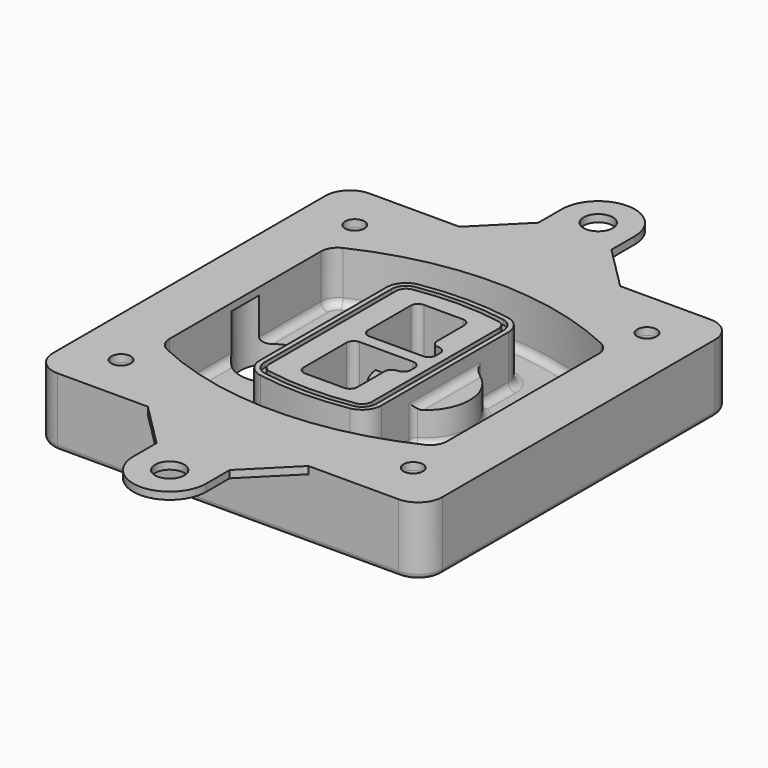
from build123d import *

# Parameters (mm, degrees)
F0_R      = 4
F1_DEPTH  = 25
F2_DEPTH  = 3
F3_DEPTH  = 18
F5_DEPTH  = 21
F6_DEPTH  = 2
F8_DEPTH  = 20
F9_DEPTH  = 16
F10_DEPTH = 25
F7_R      = 6
F7_R_2    = 4
F11_DEPTH = 6
F13_DEPTH = 9
F14_R     = 3
F15_R     = 2
F16_R     = 4
F16_R_2   = 6
F17_DEPTH = 3


with BuildPart() as f1:
    # F0 (on Top) → F1 (new body)
    with BuildSketch(Plane.XY):
        with BuildLine():
            ThreePointArc((-80, -70), (-77.0710678119, -77.0710678119), (-70, -80))
            Line((-70, -80), (70, -80))
            ThreePointArc((70, -80), (77.0710678119, -77.0710678119), (80, -70))
            Line((80, -70), (80, 70))
            ThreePointArc((80, 70), (77.0710678119, 77.0710678119), (70, 80))
            Line((70, 80), (-70, 80))
            ThreePointArc((-70, 80), (-77.0710678119, 77.0710678119), (-80, 70))
            Line((-80, 70), (-80, -70))
        make_face()
        with Locations((-60, -60)):
            Circle(F0_R, mode=Mode.SUBTRACT)
        with Locations((60, -60)):
            Circle(F0_R, mode=Mode.SUBTRACT)
        with Locations((-60, 60)):
            Circle(F0_R, mode=Mode.SUBTRACT)
        with BuildLine():
            ThreePointArc((-64, 38.8308515907), (-61.8195654598, 46.3340424013), (-55.9574468085, 51.5000594398))
            ThreePointArc((-55.9574468085, 51.5000594398), (0, 64), (55.9574468085, 51.5000594398))
            ThreePointArc((55.9574468085, 51.5000594398), (61.8195654598, 46.3340424013), (64, 38.8308515907))
            Line((64, 38.8308515907), (64, -38.8308515907))
            ThreePointArc((64, -38.8308515907), (61.8195654598, -46.3340424013), (55.9574468085, -51.5000594398))
            ThreePointArc((55.9574468085, -51.5000594398), (0, -64), (-55.9574468085, -51.5000594398))
            ThreePointArc((-55.9574468085, -51.5000594398), (-61.8195654598, -46.3340424013), (-64, -38.8308515907))
            Line((-64, -38.8308515907), (-64, 38.8308515907))
        make_face(mode=Mode.SUBTRACT)
        with Locations((60, 60)):
            Circle(F0_R, mode=Mode.SUBTRACT)
        with BuildLine():
            ThreePointArc((55.9574468085, 51.5000594398), (0, 64), (-55.9574468085, 51.5000594398))
            ThreePointArc((-55.9574468085, 51.5000594398), (-61.8195654598, 46.3340424013), (-64, 38.8308515907))
            Line((-64, 38.8308515907), (-64, -38.8308515907))
            ThreePointArc((-64, -38.8308515907), (-61.8195654598, -46.3340424013), (-55.9574468085, -51.5000594398))
            ThreePointArc((-55.9574468085, -51.5000594398), (0, -64), (55.9574468085, -51.5000594398))
            ThreePointArc((55.9574468085, -51.5000594398), (61.8195654598, -46.3340424013), (64, -38.8308515907))
            Line((64, -38.8308515907), (64, 38.8308515907))
            ThreePointArc((64, 38.8308515907), (61.8195654598, 46.3340424013), (55.9574468085, 51.5000594398))
        make_face()
        with BuildLine():
            Line((-60, -38.8308515907), (-60, 38.8308515907))
            ThreePointArc((-60, 38.8308515907), (-58.442546757, 44.1902735983), (-54.2553191489, 47.8802857686))
            ThreePointArc((-54.2553191489, 47.8802857686), (0, 60), (54.2553191489, 47.8802857686))
            ThreePointArc((54.2553191489, 47.8802857686), (58.442546757, 44.1902735983), (60, 38.8308515907))
            Line((60, 38.8308515907), (60, -38.8308515907))
            ThreePointArc((60, -38.8308515907), (58.442546757, -44.1902735983), (54.2553191489, -47.8802857686))
            ThreePointArc((54.2553191489, -47.8802857686), (0, -60), (-54.2553191489, -47.8802857686))
            ThreePointArc((-54.2553191489, -47.8802857686), (-58.442546757, -44.1902735983), (-60, -38.8308515907))
        make_face(mode=Mode.SUBTRACT)
        with BuildLine():
            ThreePointArc((-54.2553191489, 47.8802857686), (-58.442546757, 44.1902735983), (-60, 38.8308515907))
            Line((-60, 38.8308515907), (-60, -38.8308515907))
            ThreePointArc((-60, -38.8308515907), (-58.442546757, -44.1902735983), (-54.2553191489, -47.8802857686))
            ThreePointArc((-54.2553191489, -47.8802857686), (0, -60), (54.2553191489, -47.8802857686))
            ThreePointArc((54.2553191489, -47.8802857686), (58.442546757, -44.1902735983), (60, -38.8308515907))
            Line((60, -38.8308515907), (60, 38.8308515907))
            ThreePointArc((60, 38.8308515907), (58.442546757, 44.1902735983), (54.2553191489, 47.8802857686))
            ThreePointArc((54.2553191489, 47.8802857686), (0, 60), (-54.2553191489, 47.8802857686))
        make_face()
        with BuildLine():
            ThreePointArc((52.9787234043, 45.1654555152), (55.9097827299, 42.582446996), (57, 38.8308515907))
            Line((57, 38.8308515907), (57, -38.8308515907))
            ThreePointArc((57, -38.8308515907), (55.9097827299, -42.582446996), (52.9787234043, -45.1654555152))
            ThreePointArc((52.9787234043, -45.1654555152), (0, -57), (-52.9787234043, -45.1654555152))
            ThreePointArc((-52.9787234043, -45.1654555152), (-55.9097827299, -42.582446996), (-57, -38.8308515907))
            Line((-57, -38.8308515907), (-57, 38.8308515907))
            ThreePointArc((-57, 38.8308515907), (-55.9097827299, 42.582446996), (-52.9787234043, 45.1654555152))
            ThreePointArc((-52.9787234043, 45.1654555152), (0, 57), (52.9787234043, 45.1654555152))
        make_face(mode=Mode.SUBTRACT)
        with BuildLine():
            Line((57, -38.8308515907), (57, 38.8308515907))
            ThreePointArc((57, 38.8308515907), (55.9097827299, 42.582446996), (52.9787234043, 45.1654555152))
            ThreePointArc((52.9787234043, 45.1654555152), (0, 57), (-52.9787234043, 45.1654555152))
            ThreePointArc((-52.9787234043, 45.1654555152), (-55.9097827299, 42.582446996), (-57, 38.8308515907))
            Line((-57, 38.8308515907), (-57, -38.8308515907))
            ThreePointArc((-57, -38.8308515907), (-55.9097827299, -42.582446996), (-52.9787234043, -45.1654555152))
            ThreePointArc((-52.9787234043, -45.1654555152), (0, -57), (52.9787234043, -45.1654555152))
            ThreePointArc((52.9787234043, -45.1654555152), (55.9097827299, -42.582446996), (57, -38.8308515907))
        make_face()
    extrude(amount=-F1_DEPTH)

    # F0 (on Top) → F2 (join)
    with BuildSketch(Plane.XY):
        with BuildLine():
            ThreePointArc((-54.2553191489, 47.8802857686), (-58.442546757, 44.1902735983), (-60, 38.8308515907))
            Line((-60, 38.8308515907), (-60, -38.8308515907))
            ThreePointArc((-60, -38.8308515907), (-58.442546757, -44.1902735983), (-54.2553191489, -47.8802857686))
            ThreePointArc((-54.2553191489, -47.8802857686), (0, -60), (54.2553191489, -47.8802857686))
            ThreePointArc((54.2553191489, -47.8802857686), (58.442546757, -44.1902735983), (60, -38.8308515907))
            Line((60, -38.8308515907), (60, 38.8308515907))
            ThreePointArc((60, 38.8308515907), (58.442546757, 44.1902735983), (54.2553191489, 47.8802857686))
            ThreePointArc((54.2553191489, 47.8802857686), (0, 60), (-54.2553191489, 47.8802857686))
        make_face()
        with BuildLine():
            ThreePointArc((52.9787234043, 45.1654555152), (55.9097827299, 42.582446996), (57, 38.8308515907))
            Line((57, 38.8308515907), (57, -38.8308515907))
            ThreePointArc((57, -38.8308515907), (55.9097827299, -42.582446996), (52.9787234043, -45.1654555152))
            ThreePointArc((52.9787234043, -45.1654555152), (0, -57), (-52.9787234043, -45.1654555152))
            ThreePointArc((-52.9787234043, -45.1654555152), (-55.9097827299, -42.582446996), (-57, -38.8308515907))
            Line((-57, -38.8308515907), (-57, 38.8308515907))
            ThreePointArc((-57, 38.8308515907), (-55.9097827299, 42.582446996), (-52.9787234043, 45.1654555152))
            ThreePointArc((-52.9787234043, 45.1654555152), (0, 57), (52.9787234043, 45.1654555152))
        make_face(mode=Mode.SUBTRACT)
    extrude(amount=F2_DEPTH)

    # F0 (on Top) → F3 (cut)
    with BuildSketch(Plane.XY):
        with BuildLine():
            Line((57, -38.8308515907), (57, 38.8308515907))
            ThreePointArc((57, 38.8308515907), (55.9097827299, 42.582446996), (52.9787234043, 45.1654555152))
            ThreePointArc((52.9787234043, 45.1654555152), (0, 57), (-52.9787234043, 45.1654555152))
            ThreePointArc((-52.9787234043, 45.1654555152), (-55.9097827299, 42.582446996), (-57, 38.8308515907))
            Line((-57, 38.8308515907), (-57, -38.8308515907))
            ThreePointArc((-57, -38.8308515907), (-55.9097827299, -42.582446996), (-52.9787234043, -45.1654555152))
            ThreePointArc((-52.9787234043, -45.1654555152), (0, -57), (52.9787234043, -45.1654555152))
            ThreePointArc((52.9787234043, -45.1654555152), (55.9097827299, -42.582446996), (57, -38.8308515907))
        make_face()
    extrude(amount=-F3_DEPTH, mode=Mode.SUBTRACT)

    # F4 (on face) → F5 (join, through all)
    with BuildSketch(Plane.XY.offset(3)):
        with BuildLine():
            ThreePointArc((-25, -32.5662280692), (-23.1122504785, -37.7276614059), (-18.3399014778, -40.4532214146))
            ThreePointArc((-18.3399014778, -40.4532214146), (0, -42), (18.3399014778, -40.4532214146))
            ThreePointArc((18.3399014778, -40.4532214146), (23.1122504785, -37.7276614059), (25, -32.5662280692))
            Line((25, -32.5662280692), (25, 32.5662280692))
            ThreePointArc((25, 32.5662280692), (23.1122504785, 37.7276614059), (18.3399014778, 40.4532214146))
            ThreePointArc((18.3399014778, 40.4532214146), (0, 42), (-18.3399014778, 40.4532214146))
            ThreePointArc((-18.3399014778, 40.4532214146), (-23.1122504785, 37.7276614059), (-25, 32.5662280692))
            Line((-25, 32.5662280692), (-25, -32.5662280692))
        make_face()
        with BuildLine():
            ThreePointArc((18.0049261084, 38.4814730782), (21.5841878588, 36.4373030717), (23, 32.5662280692))
            Line((23, 32.5662280692), (23, -32.5662280692))
            ThreePointArc((23, -32.5662280692), (21.5841878588, -36.4373030717), (18.0049261084, -38.4814730782))
            ThreePointArc((18.0049261084, -38.4814730782), (0, -40), (-18.0049261084, -38.4814730782))
            ThreePointArc((-18.0049261084, -38.4814730782), (-21.5841878588, -36.4373030717), (-23, -32.5662280692))
            Line((-23, -32.5662280692), (-23, 32.5662280692))
            ThreePointArc((-23, 32.5662280692), (-21.5841878588, 36.4373030717), (-18.0049261084, 38.4814730782))
            ThreePointArc((-18.0049261084, 38.4814730782), (0, 40), (18.0049261084, 38.4814730782))
        make_face(mode=Mode.SUBTRACT)
        with BuildLine():
            Line((23, -32.5662280692), (23, 32.5662280692))
            ThreePointArc((23, 32.5662280692), (21.5841878588, 36.4373030717), (18.0049261084, 38.4814730782))
            ThreePointArc((18.0049261084, 38.4814730782), (0, 40), (-18.0049261084, 38.4814730782))
            ThreePointArc((-18.0049261084, 38.4814730782), (-21.5841878588, 36.4373030717), (-23, 32.5662280692))
            Line((-23, 32.5662280692), (-23, -32.5662280692))
            ThreePointArc((-23, -32.5662280692), (-21.5841878588, -36.4373030717), (-18.0049261084, -38.4814730782))
            ThreePointArc((-18.0049261084, -38.4814730782), (0, -40), (18.0049261084, -38.4814730782))
            ThreePointArc((18.0049261084, -38.4814730782), (21.5841878588, -36.4373030717), (23, -32.5662280692))
        make_face()
        with BuildLine():
            ThreePointArc((17.6699507389, 36.5097247419), (20.0561252392, 35.1469447375), (21, 32.5662280692))
            Line((21, 32.5662280692), (21, -32.5662280692))
            ThreePointArc((21, -32.5662280692), (20.0561252392, -35.1469447375), (17.6699507389, -36.5097247419))
            ThreePointArc((17.6699507389, -36.5097247419), (0, -38), (-17.6699507389, -36.5097247419))
            ThreePointArc((-17.6699507389, -36.5097247419), (-20.0561252392, -35.1469447375), (-21, -32.5662280692))
            Line((-21, -32.5662280692), (-21, 32.5662280692))
            ThreePointArc((-21, 32.5662280692), (-20.0561252392, 35.1469447375), (-17.6699507389, 36.5097247419))
            ThreePointArc((-17.6699507389, 36.5097247419), (0, 38), (17.6699507389, 36.5097247419))
        make_face(mode=Mode.SUBTRACT)
        with BuildLine():
            Line((21, -32.5662280692), (21, 32.5662280692))
            ThreePointArc((21, 32.5662280692), (20.0561252392, 35.1469447375), (17.6699507389, 36.5097247419))
            ThreePointArc((17.6699507389, 36.5097247419), (0, 38), (-17.6699507389, 36.5097247419))
            ThreePointArc((-17.6699507389, 36.5097247419), (-20.0561252392, 35.1469447375), (-21, 32.5662280692))
            Line((-21, 32.5662280692), (-21, -32.5662280692))
            ThreePointArc((-21, -32.5662280692), (-20.0561252392, -35.1469447375), (-17.6699507389, -36.5097247419))
            ThreePointArc((-17.6699507389, -36.5097247419), (0, -38), (17.6699507389, -36.5097247419))
            ThreePointArc((17.6699507389, -36.5097247419), (20.0561252392, -35.1469447375), (21, -32.5662280692))
        make_face()
        with BuildLine():
            Line((-8, -2.5), (14, -2.5))
            ThreePointArc((14, -2.5), (16.1213203436, -3.3786796564), (17, -5.5))
            Line((17, -5.5), (17, -7.5))
            ThreePointArc((17, -7.5), (16.1213203436, -9.6213203436), (14, -10.5))
            ThreePointArc((14, -10.5), (11.8786796564, -11.3786796564), (11, -13.5))
            Line((11, -13.5), (11, -27.5))
            ThreePointArc((11, -27.5), (10.1213203436, -29.6213203436), (8, -30.5))
            Line((8, -30.5), (-8, -30.5))
            ThreePointArc((-8, -30.5), (-10.1213203436, -29.6213203436), (-11, -27.5))
            Line((-11, -27.5), (-11, -5.5))
            ThreePointArc((-11, -5.5), (-10.1213203436, -3.3786796564), (-8, -2.5))
        make_face(mode=Mode.SUBTRACT)
        with BuildLine():
            ThreePointArc((-8, 2.5), (-10.1213203436, 3.3786796564), (-11, 5.5))
            Line((-11, 5.5), (-11, 27.5))
            ThreePointArc((-11, 27.5), (-10.1213203436, 29.6213203436), (-8, 30.5))
            Line((-8, 30.5), (8, 30.5))
            ThreePointArc((8, 30.5), (10.1213203436, 29.6213203436), (11, 27.5))
            Line((11, 27.5), (11, 13.5))
            ThreePointArc((11, 13.5), (11.8786796564, 11.3786796564), (14, 10.5))
            ThreePointArc((14, 10.5), (16.1213203436, 9.6213203436), (17, 7.5))
            Line((17, 7.5), (17, 5.5))
            ThreePointArc((17, 5.5), (16.1213203436, 3.3786796564), (14, 2.5))
            Line((14, 2.5), (-8, 2.5))
        make_face(mode=Mode.SUBTRACT)
    extrude(amount=-F5_DEPTH)

    # F4 (on face) → F6 (cut)
    with BuildSketch(Plane.XY.offset(3)):
        with BuildLine():
            Line((23, -32.5662280692), (23, 32.5662280692))
            ThreePointArc((23, 32.5662280692), (21.5841878588, 36.4373030717), (18.0049261084, 38.4814730782))
            ThreePointArc((18.0049261084, 38.4814730782), (0, 40), (-18.0049261084, 38.4814730782))
            ThreePointArc((-18.0049261084, 38.4814730782), (-21.5841878588, 36.4373030717), (-23, 32.5662280692))
            Line((-23, 32.5662280692), (-23, -32.5662280692))
            ThreePointArc((-23, -32.5662280692), (-21.5841878588, -36.4373030717), (-18.0049261084, -38.4814730782))
            ThreePointArc((-18.0049261084, -38.4814730782), (0, -40), (18.0049261084, -38.4814730782))
            ThreePointArc((18.0049261084, -38.4814730782), (21.5841878588, -36.4373030717), (23, -32.5662280692))
        make_face()
        with BuildLine():
            ThreePointArc((17.6699507389, 36.5097247419), (20.0561252392, 35.1469447375), (21, 32.5662280692))
            Line((21, 32.5662280692), (21, -32.5662280692))
            ThreePointArc((21, -32.5662280692), (20.0561252392, -35.1469447375), (17.6699507389, -36.5097247419))
            ThreePointArc((17.6699507389, -36.5097247419), (0, -38), (-17.6699507389, -36.5097247419))
            ThreePointArc((-17.6699507389, -36.5097247419), (-20.0561252392, -35.1469447375), (-21, -32.5662280692))
            Line((-21, -32.5662280692), (-21, 32.5662280692))
            ThreePointArc((-21, 32.5662280692), (-20.0561252392, 35.1469447375), (-17.6699507389, 36.5097247419))
            ThreePointArc((-17.6699507389, 36.5097247419), (0, 38), (17.6699507389, 36.5097247419))
        make_face(mode=Mode.SUBTRACT)
    extrude(amount=-F6_DEPTH, mode=Mode.SUBTRACT)

    # F7 (on face) → F8 (join)
    with BuildSketch(Plane(origin=(0, 0, -25), x_dir=(1, 0, 0), z_dir=(0, 0, -1))):
        with BuildLine():
            ThreePointArc((3.28842436, 0), (16.7567035675, 13.4682792075), (30.224982775, 0))
            Line((30.224982775, 0), (35.224982775, 0))
            ThreePointArc((35.224982775, 0), (16.7567035675, 18.4682792075), (-1.71157564, 0))
            Line((-1.71157564, 0), (3.28842436, 0))
        make_face()
        with BuildLine():
            Line((3.28842436, 0), (30.224982775, 0))
            ThreePointArc((30.224982775, 0), (16.7567035675, 13.4682792075), (3.28842436, 0))
        make_face()
        with BuildLine():
            ThreePointArc((3.28842436, 0), (16.7567035675, -13.4682792075), (30.224982775, 0))
            Line((30.224982775, 0), (3.28842436, 0))
        make_face()
        with BuildLine():
            Line((35.224982775, 0), (30.224982775, 0))
            ThreePointArc((30.224982775, 0), (16.7567035675, -13.4682792075), (3.28842436, 0))
            Line((3.28842436, 0), (-1.71157564, 0))
            ThreePointArc((-1.71157564, 0), (16.7567035675, -18.4682792075), (35.224982775, 0))
        make_face()
    extrude(amount=-F8_DEPTH)

    # F7 (on face) → F9 (cut)
    with BuildSketch(Plane(origin=(0, 0, -25), x_dir=(1, 0, 0), z_dir=(0, 0, -1))):
        with BuildLine():
            Line((3.28842436, 0), (30.224982775, 0))
            ThreePointArc((30.224982775, 0), (16.7567035675, 13.4682792075), (3.28842436, 0))
        make_face()
        with BuildLine():
            ThreePointArc((3.28842436, 0), (16.7567035675, -13.4682792075), (30.224982775, 0))
            Line((30.224982775, 0), (3.28842436, 0))
        make_face()
    extrude(amount=-F9_DEPTH, mode=Mode.SUBTRACT)

    # F7 (on face) → F10 (cut)
    with BuildSketch(Plane(origin=(0, 0, -25), x_dir=(1, 0, 0), z_dir=(0, 0, -1))):
        with BuildLine():
            Line((-59.0318229325, 0), (-32.0952645175, 0))
            ThreePointArc((-32.0952645175, 0), (-45.563543725, 13.4682792075), (-59.0318229325, 0))
        make_face()
        with BuildLine():
            ThreePointArc((-59.0318229325, 0), (-45.563543725, -13.4682792075), (-32.0952645175, 0))
            Line((-32.0952645175, 0), (-59.0318229325, 0))
        make_face()
    extrude(amount=-F10_DEPTH, mode=Mode.SUBTRACT)

    # F7 (on face) → F11 (cut)
    with BuildSketch(Plane(origin=(0, 0, -25), x_dir=(1, 0, 0), z_dir=(0, 0, -1))):
        with Locations((60, -60)):
            Circle(F7_R)
        with Locations((60, -60)):
            Circle(F7_R_2, mode=Mode.SUBTRACT)
        with Locations((60, -60)):
            Circle(F7_R)
        with Locations((60, -60)):
            Circle(F7_R_2, mode=Mode.SUBTRACT)
        with Locations((-60, -60)):
            Circle(F7_R)
        with Locations((-60, -60)):
            Circle(F7_R_2, mode=Mode.SUBTRACT)
        with Locations((-60, -60)):
            Circle(F7_R)
        with Locations((-60, -60)):
            Circle(F7_R_2, mode=Mode.SUBTRACT)
        with Locations((-60, 60)):
            Circle(F7_R)
        with Locations((-60, 60)):
            Circle(F7_R_2, mode=Mode.SUBTRACT)
        with Locations((-60, 60)):
            Circle(F7_R)
        with Locations((-60, 60)):
            Circle(F7_R_2, mode=Mode.SUBTRACT)
        with Locations((60, 60)):
            Circle(F7_R)
        with Locations((60, 60)):
            Circle(F7_R_2, mode=Mode.SUBTRACT)
        with Locations((60, 60)):
            Circle(F7_R)
        with Locations((60, 60)):
            Circle(F7_R_2, mode=Mode.SUBTRACT)
    extrude(amount=-F11_DEPTH, mode=Mode.SUBTRACT)

    # F12 (on face) → F13 (cut, through all)
    with BuildSketch(Plane(origin=(0, 0, -9), x_dir=(1, 0, 0), z_dir=(0, 0, -1))):
        with BuildLine():
            Line((11, 13.5), (11, 17.5481537753))
            ThreePointArc((11, 17.5481537753), (2.5696536419, 11.8239143813), (-1.5415842455, 2.5))
            Line((-1.5415842455, 2.5), (3.5224848595, 2.5))
            ThreePointArc((3.5224848595, 2.5), (6.1857188154, 8.3455872281), (11.2536447004, 12.2927168648))
            ThreePointArc((11.2536447004, 12.2927168648), (11.0640958889, 12.8831798879), (11, 13.5))
        make_face()
        with BuildLine():
            ThreePointArc((11.2536447004, -12.2927168648), (6.1857188154, -8.3455872281), (3.5224848595, -2.5))
            Line((3.5224848595, -2.5), (-1.5415842455, -2.5))
            ThreePointArc((-1.5415842455, -2.5), (2.5696536419, -11.8239143813), (11, -17.5481537753))
            Line((11, -17.5481537753), (11, -13.5))
            ThreePointArc((11, -13.5), (11.0640958889, -12.8831798879), (11.2536447004, -12.2927168648))
        make_face()
        with BuildLine():
            ThreePointArc((11.2536447004, 12.2927168648), (6.1857188154, 8.3455872281), (3.5224848595, 2.5))
            Line((3.5224848595, 2.5), (14, 2.5))
            ThreePointArc((14, 2.5), (16.1213203436, 3.3786796564), (17, 5.5))
            Line((17, 5.5), (17, 7.5))
            ThreePointArc((17, 7.5), (16.1213203436, 9.6213203436), (14, 10.5))
            ThreePointArc((14, 10.5), (12.3601599782, 10.9878446101), (11.2536447004, 12.2927168648))
        make_face()
        with BuildLine():
            Line((14, -2.5), (3.5224848595, -2.5))
            ThreePointArc((3.5224848595, -2.5), (6.1857188154, -8.3455872281), (11.2536447004, -12.2927168648))
            ThreePointArc((11.2536447004, -12.2927168648), (12.3601599782, -10.9878446101), (14, -10.5))
            ThreePointArc((14, -10.5), (16.1213203436, -9.6213203436), (17, -7.5))
            Line((17, -7.5), (17, -5.5))
            ThreePointArc((17, -5.5), (16.1213203436, -3.3786796564), (14, -2.5))
        make_face()
    extrude(amount=F13_DEPTH, mode=Mode.SUBTRACT)

    # F14
    f14_edges = [f1.edges().sort_by_distance(p)[0] for p in [
        (-57, -22.97218, -18),
        (-57, 22.97218, -18),
        (25, 0, -5),
        (25, 16.526506, -11.5),
        (25, -16.526506, -11.5),
        (25, -24.546367, -18),
        (35.224983, 0, -18),
    ]]
    fillet(f14_edges, radius=F14_R)

    # F15
    f15_edges = [f1.edges().sort_by_distance(p)[0] for p in [
        (0, -80, -25),
    ]]
    fillet(f15_edges, radius=F15_R)

    # F16 (on face) → F17 (join, through all)
    with BuildSketch(Plane.XY):
        with BuildLine():
            Line((33, 80), (-33, 80))
            Line((-33, 80), (-70, 80))
            ThreePointArc((-70, 80), (-77.0710678119, 77.0710678119), (-80, 70))
            Line((-80, 70), (-80, -70))
            ThreePointArc((-80, -70), (-77.0710678119, -77.0710678119), (-70, -80))
            Line((-70, -80), (-33, -80))
            Line((-33, -80), (33, -80))
            Line((33, -80), (70, -80))
            ThreePointArc((70, -80), (77.0710678119, -77.0710678119), (80, -70))
            Line((80, -70), (80, 70))
            ThreePointArc((80, 70), (77.0710678119, 77.0710678119), (70, 80))
            Line((70, 80), (33, 80))
        make_face()
        with Locations((-60, -60)):
            Circle(F16_R, mode=Mode.SUBTRACT)
        with Locations((60, -60)):
            Circle(F16_R, mode=Mode.SUBTRACT)
        with Locations((-60, 60)):
            Circle(F16_R, mode=Mode.SUBTRACT)
        with BuildLine():
            ThreePointArc((-60, 38.8308515907), (-58.442546757, 44.1902735983), (-54.2553191489, 47.8802857686))
            ThreePointArc((-54.2553191489, 47.8802857686), (0, 60), (54.2553191489, 47.8802857686))
            ThreePointArc((54.2553191489, 47.8802857686), (58.442546757, 44.1902735983), (60, 38.8308515907))
            Line((60, 38.8308515907), (60, -38.8308515907))
            ThreePointArc((60, -38.8308515907), (58.442546757, -44.1902735983), (54.2553191489, -47.8802857686))
            ThreePointArc((54.2553191489, -47.8802857686), (0, -60), (-54.2553191489, -47.8802857686))
            ThreePointArc((-54.2553191489, -47.8802857686), (-58.442546757, -44.1902735983), (-60, -38.8308515907))
            Line((-60, -38.8308515907), (-60, 38.8308515907))
        make_face(mode=Mode.SUBTRACT)
        with Locations((60, 60)):
            Circle(F16_R, mode=Mode.SUBTRACT)
        with BuildLine():
            Line((-15, 98), (-33, 80))
            Line((-33, 80), (33, 80))
            Line((33, 80), (15, 98))
            Line((15, 98), (15, 110))
            ThreePointArc((15, 110), (0, 125), (-15, 110))
            Line((-15, 110), (-15, 98))
        make_face()
        with Locations((0, 110)):
            Circle(F16_R_2, mode=Mode.SUBTRACT)
        with BuildLine():
            Line((33, -80), (-33, -80))
            Line((-33, -80), (-15, -98))
            Line((-15, -98), (-15, -110))
            ThreePointArc((-15, -110), (0, -125), (15, -110))
            Line((15, -110), (15, -98))
            Line((15, -98), (33, -80))
        make_face()
        with Locations((0, -110)):
            Circle(F16_R_2, mode=Mode.SUBTRACT)
    extrude(amount=F17_DEPTH)


solid = f1.part
